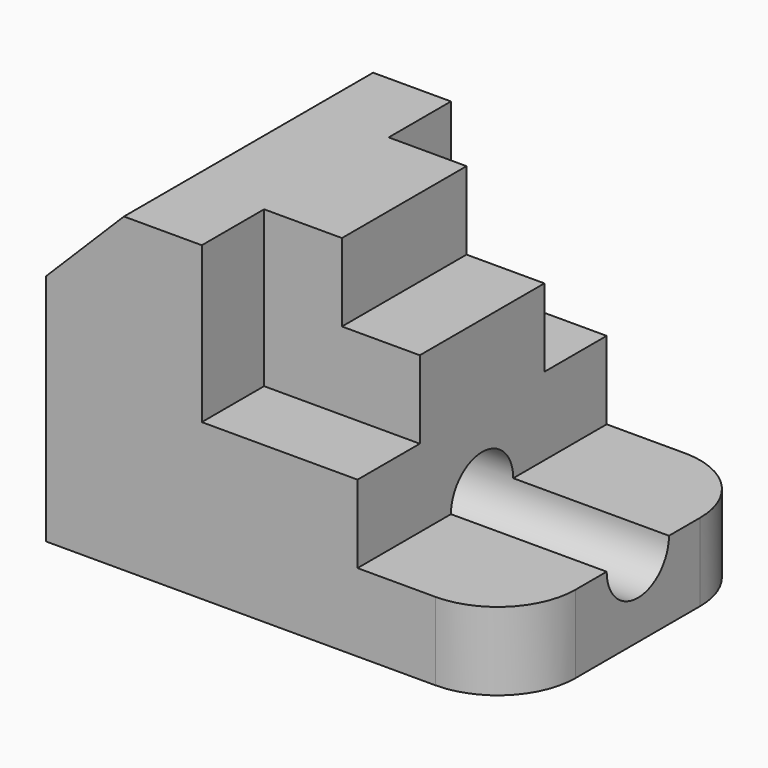
from build123d import *

# Parameters (mm, degrees)
F1_DEPTH = 25.4
F2_W     = 12.7
F2_H     = 25.4
F3_DEPTH = 50.8
F4_R     = 6.35
F5_DEPTH = 76.201
F7_DEPTH = 50.801


with BuildPart() as f1:
    # F0 (on Front) → F1 (new body, symmetric)
    with BuildSketch(Plane.XZ):
        Polygon((-76.2, -12.7), (-76.2, -50.8), (0, -50.8), (0, -38.1), (-25.4, -38.1), (-25.4, -12.7), (-38.1, -12.7), (-38.1, 0), (-63.5, 0), align=None)
    extrude(amount=F1_DEPTH, both=True)

    # F2 (on Right) → F3 (cut)
    with BuildSketch(Plane.YZ):
        with Locations((-19.05, -12.7)):
            Rectangle(F2_W, F2_H)
        with Locations((19.05, -12.7)):
            Rectangle(F2_W, F2_H)
    extrude(amount=-F3_DEPTH, mode=Mode.SUBTRACT)

    # F4 (on Right) → F5 (cut, through all)
    with BuildSketch(Plane.YZ):
        with Locations((0, -38.1)):
            Circle(F4_R)
    extrude(amount=-F5_DEPTH, mode=Mode.SUBTRACT)

    # F6 (on Top) → F7 (cut, through all)
    with BuildSketch(Plane.XY):
        with BuildLine():
            ThreePointArc((0, -12.7), (-3.719744, -21.680256), (-12.7, -25.4))
            Line((-12.7, -25.4), (0, -25.4))
            Line((0, -25.4), (0, -12.7))
        make_face()
        with BuildLine():
            ThreePointArc((-12.7, 25.40602), (-3.719744, 21.686276), (0, 12.70602))
            Line((0, 12.70602), (0, 25.40602))
            Line((0, 25.40602), (-12.7, 25.40602))
        make_face()
    extrude(amount=-F7_DEPTH, mode=Mode.SUBTRACT)


solid = f1.part
